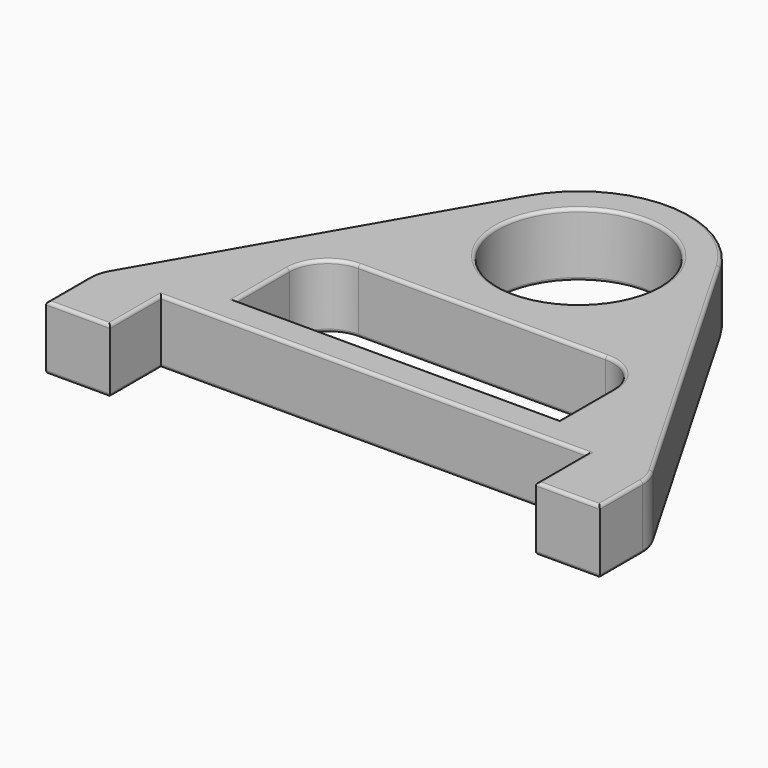
from build123d import *

# Parameters (mm, degrees)
F0_R     = 12.6
F1_DEPTH = 10
F2_R     = 0.5


with BuildPart() as f1:
    # F0 (on Top) → F1 (new body)
    with BuildSketch(Plane.XY):
        with BuildLine():
            Line((42.497423, -38.607695), (15.155445, 8.75))
            ThreePointArc((15.155445, 8.75), (0, 17.5), (-15.155445, 8.75))
            Line((-15.155445, 8.75), (-42.497423, -38.607695))
            ThreePointArc((-42.497423, -38.607695), (-43.096825, -40.054781), (-43.30127, -41.607695))
            Line((-43.30127, -41.607695), (-43.30127, -50))
            Line((-43.30127, -50), (-33.30127, -50))
            Line((-33.30127, -50), (-33.30127, -40))
            Line((-33.30127, -40), (33.30127, -40))
            Line((33.30127, -40), (33.30127, -50))
            Line((33.30127, -50), (43.30127, -50))
            Line((43.30127, -50), (43.30127, -41.607695))
            ThreePointArc((43.30127, -41.607695), (43.096825, -40.054781), (42.497423, -38.607695))
        make_face()
        with BuildLine():
            Line((-19.529804, -18.668883), (19.132447, -18.668883))
            ThreePointArc((19.132447, -18.668883), (23.375088, -20.426242), (25.132447, -24.668883))
            Line((25.132447, -24.668883), (25.132447, -35.165567))
            Line((25.132447, -35.165567), (-25.529804, -35.165567))
            Line((-25.529804, -35.165567), (-25.529804, -24.668883))
            ThreePointArc((-25.529804, -24.668883), (-23.772444, -20.426242), (-19.529804, -18.668883))
        make_face(mode=Mode.SUBTRACT)
        Circle(F0_R, mode=Mode.SUBTRACT)
    extrude(amount=F1_DEPTH)

    # F2
    f2_edges = [f1.edges().sort_by_distance(p)[0] for p in [
        (28.826434, -14.928848, 10),
        (0, 17.5, 10),
        (-28.826434, -14.928848, 10),
        (-43.096825, -40.054781, 10),
        (-43.30127, -45.803848, 10),
        (-38.30127, -50, 10),
        (-33.30127, -45, 10),
        (0, -40, 10),
        (33.30127, -45, 10),
        (38.30127, -50, 10),
        (43.30127, -45.803848, 10),
        (43.096825, -40.054781, 10),
        (-0.198678, -18.668883, 10),
        (23.375088, -20.426242, 10),
        (25.132447, -29.917225, 10),
        (-0.198678, -35.165567, 10),
        (-25.529804, -29.917225, 10),
        (-23.772444, -20.426242, 10),
        (-12.6, 0, 10),
        (28.826434, -14.928848, 0),
        (0, 17.5, 0),
        (-28.826434, -14.928848, 0),
        (-43.096825, -40.054781, 0),
        (-43.30127, -45.803848, 0),
        (-38.30127, -50, 0),
        (-33.30127, -45, 0),
        (0, -40, 0),
        (33.30127, -45, 0),
        (38.30127, -50, 0),
        (43.30127, -45.803848, 0),
        (43.096825, -40.054781, 0),
        (-0.198678, -18.668883, 0),
        (23.375088, -20.426242, 0),
        (25.132447, -29.917225, 0),
        (-0.198678, -35.165567, 0),
        (-25.529804, -29.917225, 0),
        (-23.772444, -20.426242, 0),
        (-12.6, 0, 0),
    ]]
    fillet(f2_edges, radius=F2_R)


solid = f1.part
